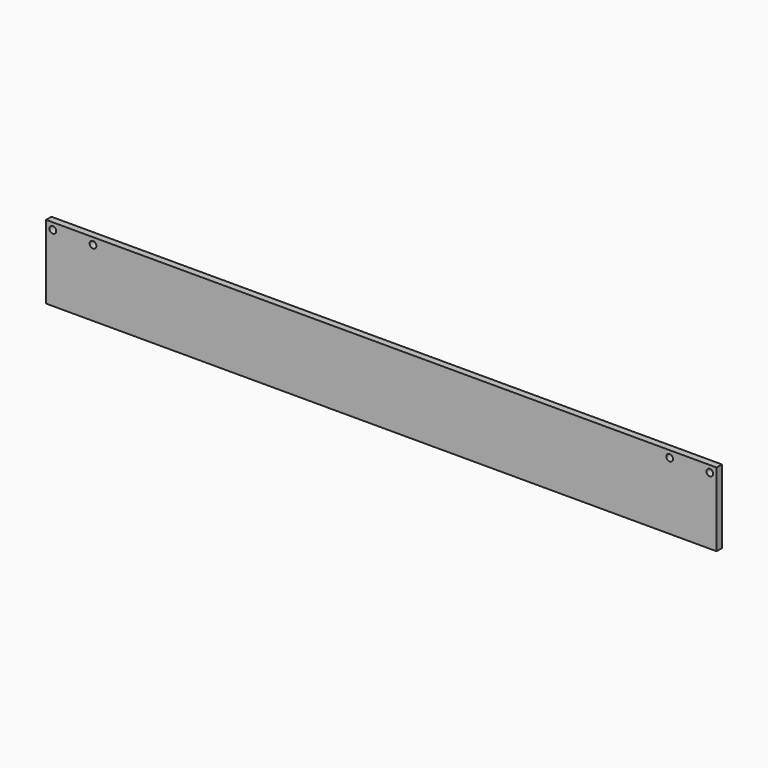
from build123d import *

# Parameters (mm, degrees)
F0_W     = 500
F0_H     = 55
F0_R     = 2.5
F1_DEPTH = 2.5


with BuildPart() as f1:
    # F0 (on Front) → F1 (new body, symmetric)
    with BuildSketch(Plane.XZ):
        Rectangle(F0_W, F0_H)
        with Locations((-245, 22.5)):
            Circle(F0_R, mode=Mode.SUBTRACT)
        with Locations((-215, 22.5)):
            Circle(F0_R, mode=Mode.SUBTRACT)
        with Locations((215, 22.5)):
            Circle(F0_R, mode=Mode.SUBTRACT)
        with Locations((245, 22.5)):
            Circle(F0_R, mode=Mode.SUBTRACT)
    extrude(amount=F1_DEPTH, both=True)


solid = f1.part
